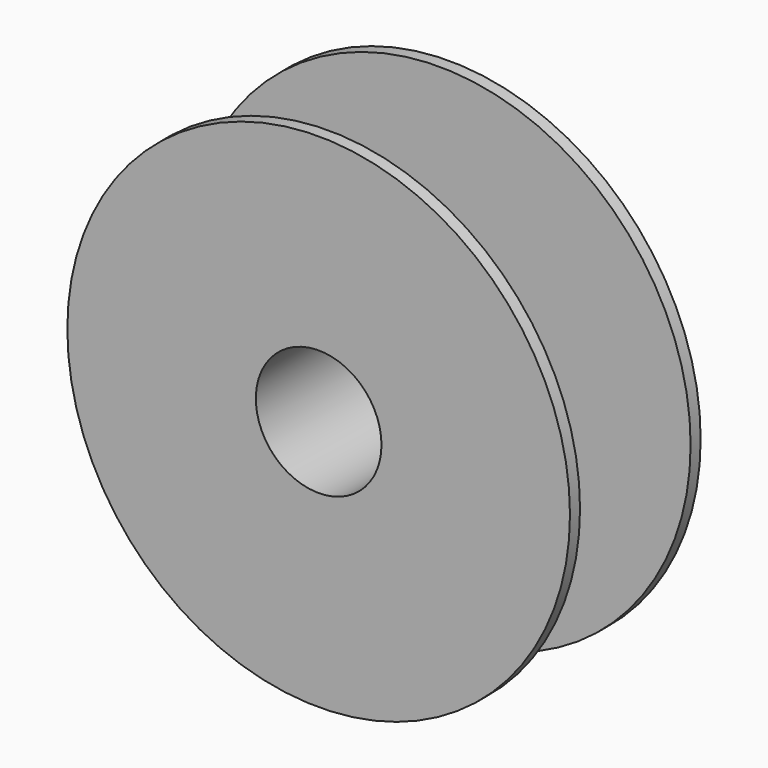
from build123d import *

# Parameters (mm, degrees)
F0_R     = 100
F0_R_2   = 25
F1_DEPTH = 32.5
F2_T     = -5


with BuildPart() as f1:
    # F0 (on Front) → F1 (new body, symmetric)
    with BuildSketch(Plane.XZ):
        Circle(F0_R)
        Circle(F0_R_2, mode=Mode.SUBTRACT)
    extrude(amount=F1_DEPTH, both=True)

    # F2
    f2_openings = [f1.faces().sort_by_distance(p)[0] for p in [
        (-100, 0, 0),
    ]]
    offset(amount=F2_T, openings=f2_openings)


solid = f1.part
